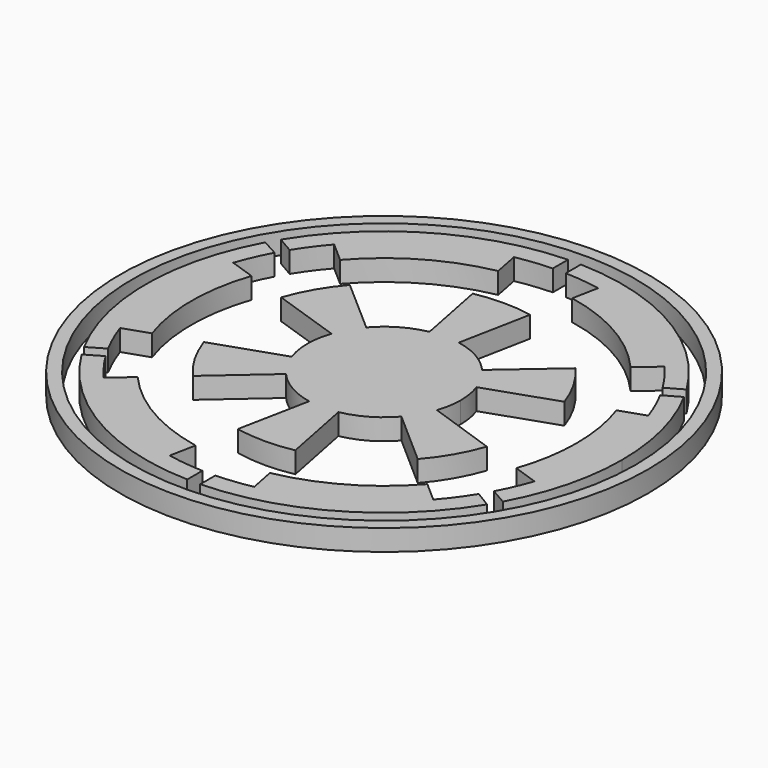
from build123d import *

# Parameters (mm, degrees)
F0_R     = 12.5129035434
F0_R_2   = 11.9218678141
F1_DEPTH = 1


with BuildPart() as f1:
    # F0 (on Top) → F1 (new body)
    with BuildSketch(Plane.XY):
        Circle(F0_R)
        Circle(F0_R_2, mode=Mode.SUBTRACT)
    extrude(amount=F1_DEPTH)


with BuildPart() as f1b:
    # F0 (on Top) → F1, piece 2 (new body)
    with BuildSketch(Plane.XY):
        with BuildLine():
            Line((8.8396388075, 5.4551908651), (9.6186460471, 5.8997504842))
            ThreePointArc((9.6186460471, 5.8997504842), (5.6447897831, 9.7704532065), (0.3066178794, 11.2796894031))
            Line((0.3066178794, 11.2796894031), (0.3066178794, 10.3828852974))
            ThreePointArc((0.3066178794, 10.3828852974), (1.1509963885, 10.3234455942), (1.9877316065, 10.1954521569))
            ThreePointArc((1.9877316065, 10.1954521569), (5.1936189617, 8.9958125649), (7.8355230443, 6.8193035014))
            ThreePointArc((7.8355230443, 6.8193035014), (8.3654322373, 6.1577483795), (8.8396388075, 5.4551908651))
        make_face()
        with BuildLine():
            Line((6.8870497225, 5.9972767185), (7.8355230443, 6.8193035014))
            ThreePointArc((7.8355230443, 6.8193035014), (5.1936189617, 8.9958125649), (1.9877316065, 10.1954521569))
            Line((1.9877316065, 10.1954521569), (1.7464057225, 8.9637519471))
            ThreePointArc((1.7464057225, 8.9637519471), (4.5644421401, 7.9097819102), (6.8870497225, 5.9972767185))
        make_face()
    extrude(amount=F1_DEPTH)


with BuildPart() as f1c:
    # F0 (on Top) → F1, piece 3 (new body)
    with BuildSketch(Plane.XY):
        with BuildLine():
            ThreePointArc((9.9261432267, -5.3662918481), (10.9391631066, -2.7676918331), (11.2838560588, 0))
            ThreePointArc((11.2838560588, 0), (10.9383436287, 2.7709287641), (9.9229655661, 5.3721654786))
            Line((9.9229655661, 5.3721654786), (9.1430323592, 4.9298357885))
            ThreePointArc((9.1430323592, 4.9298357885), (9.5144902121, 4.1680688127), (9.8226109206, 3.3785553607))
            ThreePointArc((9.8226109206, 3.3785553607), (10.2452385313, 1.7127197841), (10.3874116902, 0))
            ThreePointArc((10.3874116902, 0), (10.2459681219, -1.70834975), (9.8254894414, -3.3701749005))
            ThreePointArc((9.8254894414, -3.3701749005), (9.5176290977, -4.1608962954), (9.1462564846, -4.9238515351))
            Line((9.1462564846, -4.9238515351), (9.9261432267, -5.3662918481))
        make_face()
        with BuildLine():
            ThreePointArc((10.3874116902, 0), (10.2452385313, 1.7127197841), (9.8226109206, 3.3785553607))
            Line((9.8226109206, 3.3785553607), (8.6355698302, 2.9708106006))
            ThreePointArc((8.6355698302, 2.9708106006), (9.0072564883, 1.5060253886), (9.1322933548, 0))
            ThreePointArc((9.1322933548, 0), (9.0081483571, -1.5006815429), (8.6390886349, -2.9605623582))
            Line((8.6390886349, -2.9605623582), (9.8254894414, -3.3701749005))
            ThreePointArc((9.8254894414, -3.3701749005), (10.2459681219, -1.70834975), (10.3874116902, 0))
        make_face()
    extrude(amount=F1_DEPTH)


with BuildPart() as f1d:
    # F0 (on Top) → F1, piece 4 (new body)
    with BuildSketch(Plane.XY):
        with BuildLine():
            ThreePointArc((0.3073497054, -11.279669486), (5.6395470454, -9.7734802746), (9.6119265196, -5.9106916801))
            Line((9.6119265196, -5.9106916801), (8.8460164405, -5.4448429506))
            ThreePointArc((8.8460164405, -5.4448429506), (8.3575809895, -6.1684002486), (7.8101145103, -6.8483890776))
            ThreePointArc((7.8101145103, -6.8483890776), (5.1814766366, -9.0028118656), (1.9981252265, -10.1934202897))
            ThreePointArc((1.9981252265, -10.1934202897), (1.1566226105, -10.3228167551), (0.3073497054, -10.38286366))
            Line((0.3073497054, -10.38286366), (0.3073497054, -11.279669486))
        make_face()
        with BuildLine():
            ThreePointArc((1.9981252265, -10.1934202897), (5.1814766366, -9.0028118656), (7.8101145103, -6.8483890776))
            Line((7.8101145103, -6.8483890776), (6.867075268, -6.0201378042))
            ThreePointArc((6.867075268, -6.0201378042), (4.5549562659, -7.91524828), (1.7547104258, -8.9621299499))
            Line((1.7547104258, -8.9621299499), (1.9981252265, -10.1934202897))
        make_face()
    extrude(amount=F1_DEPTH)


with BuildPart() as f1e:
    # F0 (on Top) → F1, piece 5 (new body)
    with BuildSketch(Plane.XY):
        with BuildLine():
            ThreePointArc((-9.6198182765, -5.8978389164), (-5.6462804441, -9.7695918391), (-0.3078183345, -11.279656707))
            Line((-0.3078183345, -11.279656707), (-0.3078183345, -10.3828497772))
            ThreePointArc((-0.3078183345, -10.3828497772), (-1.1643749142, -10.3219451985), (-2.0129739246, -10.1904983981))
            ThreePointArc((-2.0129739246, -10.1904983981), (-5.1916924434, -8.996924541), (-7.8156817855, -6.8420347742))
            ThreePointArc((-7.8156817855, -6.8420347742), (-8.3597920993, -6.165403286), (-8.8454924969, -5.4456940889))
            Line((-8.8454924969, -5.4456940889), (-9.6198182765, -5.8978389164))
        make_face()
        with BuildLine():
            ThreePointArc((-7.8156817855, -6.8420347742), (-5.1916924434, -8.996924541), (-2.0129739246, -10.1904983981))
            Line((-2.0129739246, -10.1904983981), (-1.7689643242, -8.959327382))
            ThreePointArc((-1.7689643242, -8.959327382), (-4.5638648899, -7.9101149919), (-6.8710532338, -6.0155971753))
            Line((-6.8710532338, -6.0155971753), (-7.8156817855, -6.8420347742))
        make_face()
    extrude(amount=F1_DEPTH)


with BuildPart() as f1f:
    # F0 (on Top) → F1, piece 6 (new body)
    with BuildSketch(Plane.XY):
        with BuildLine():
            Line((-9.1400735771, 4.9353193035), (-9.9254042713, 5.3676584846))
            ThreePointArc((-9.9254042713, 5.3676584846), (-11.2838557205, -0.0027629713), (-9.9227744254, -5.3725185209))
            Line((-9.9227744254, -5.3725185209), (-9.1490233494, -4.9187085069))
            ThreePointArc((-9.1490233494, -4.9187085069), (-9.5222238475, -4.1503704197), (-9.8310338698, -3.3539670055))
            ThreePointArc((-9.8310338698, -3.3539670055), (-10.3874114756, -0.002111833), (-9.8323968267, 3.3499692932))
            ThreePointArc((-9.8323968267, 3.3499692932), (-9.5192957706, 4.1570818675), (-9.1400735771, 4.9353193035))
        make_face()
        with BuildLine():
            Line((-8.6439002318, 2.9464844647), (-9.8323968267, 3.3499692932))
            ThreePointArc((-9.8323968267, 3.3499692932), (-10.3874114756, -0.002111833), (-9.8310338698, -3.3539670055))
            Line((-9.8310338698, -3.3539670055), (-8.6428088374, -2.9496842744))
            ThreePointArc((-8.6428088374, -2.9496842744), (-9.1322931983, -0.0016904085), (-8.6439002318, 2.9464844647))
        make_face()
    extrude(amount=F1_DEPTH)


with BuildPart() as f1g:
    # F0 (on Top) → F1, piece 7 (new body)
    with BuildSketch(Plane.XY):
        with BuildLine():
            Line((-0.3083923438, 10.3828327438), (-0.3083923438, 11.2796410279))
            ThreePointArc((-0.3083923438, 11.2796410279), (-5.643671845, 9.7710989997), (-9.6163671511, 5.9034642687))
            Line((-9.6163671511, 5.9034642687), (-8.8405045503, 5.4537877589))
            ThreePointArc((-8.8405045503, 5.4537877589), (-8.3629197756, 6.1611601544), (-7.8288737244, 6.8269361965))
            ThreePointArc((-7.8288737244, 6.8269361965), (-5.1952200664, 8.9948879973), (-2.0012950213, 10.1927984313))
            ThreePointArc((-2.0012950213, 10.1927984313), (-1.1587459562, 10.3225786232), (-0.3083923438, 10.3828327438))
        make_face()
        with BuildLine():
            Line((-1.7593740184, 8.9612155973), (-2.0012950213, 10.1927984313))
            ThreePointArc((-2.0012950213, 10.1927984313), (-5.1952200664, 8.9948879973), (-7.8288737244, 6.8269361965))
            Line((-7.8288737244, 6.8269361965), (-6.8844707632, 6.0002370143))
            ThreePointArc((-6.8844707632, 6.0002370143), (-4.5684638222, 7.9074597832), (-1.7593740184, 8.9612155973))
        make_face()
    extrude(amount=F1_DEPTH)


with BuildPart() as f1h:
    # F0 (on Top) → F1, piece 8 (new body)
    with BuildSketch(Plane.XY):
        with BuildLine():
            ThreePointArc((3.6334755842, 0), (3.583514543, 0.6004734312), (3.4350053685, 1.1844335945))
            ThreePointArc((3.4350053685, 1.1844335945), (3.1422657187, 1.8243659102), (2.7316602961, 2.3958666173))
            ThreePointArc((2.7316602961, 2.3958666173), (1.8079395778, 3.1517454377), (0.6891283027, 3.5675267348))
            ThreePointArc((0.6891283027, 3.5675267348), (-0.0052782479, 3.6334717504), (-0.6994902751, 3.5655095255))
            ThreePointArc((-0.6994902751, 3.5655095255), (-1.822570271, 3.1433075619), (-2.7469170245, 2.3783590313))
            ThreePointArc((-2.7469170245, 2.3783590313), (-3.1495741996, 1.8117193995), (-3.4369534347, 1.1787688105))
            ThreePointArc((-3.4369534347, 1.1787688105), (-3.6334755809, 0.0001559043), (-3.4370545787, -1.1784738623))
            ThreePointArc((-3.4370545787, -1.1784738623), (-3.1441760167, -1.8210716617), (-2.7325265002, -2.3948786497))
            ThreePointArc((-2.7325265002, -2.3948786497), (-1.8132795313, -3.1486762556), (-0.699929749, -3.5654232803))
            ThreePointArc((-0.699929749, -3.5654232803), (-0.0059345256, -3.6334707378), (0.6882792775, -3.5676906336))
            ThreePointArc((0.6882792775, -3.5676906336), (1.8100979826, -3.1505063267), (2.7355090954, -2.3914712648))
            ThreePointArc((2.7355090954, -2.3914712648), (3.1486052863, -1.8134027606), (3.4413079596, -1.1659950037))
            ThreePointArc((3.4413079596, -1.1659950037), (3.5851118023, -0.5908622396), (3.6334755842, 0))
        make_face()
        with BuildLine():
            Line((0.6891283027, 3.5675267348), (1.3536648238, 6.9592465073))
            ThreePointArc((1.3536648238, 6.9592465073), (-0.0061134144, 7.0896743952), (-1.3656646951, 6.956901634))
            Line((-1.3656646951, 6.956901634), (-0.6994902751, 3.5655095255))
            ThreePointArc((-0.6994902751, 3.5655095255), (-0.0052782479, 3.6334717504), (0.6891283027, 3.5675267348))
        make_face()
        with BuildLine():
            Line((-2.7469170245, 2.3783590313), (-5.3475202715, 4.6548412809))
            ThreePointArc((-5.3475202715, 4.6548412809), (-6.1434908203, 3.5385082939), (-6.7097054717, 2.2898412362))
            Line((-6.7097054717, 2.2898412362), (-3.4369534347, 1.1787688105))
            ThreePointArc((-3.4369534347, 1.1787688105), (-3.1495741996, 1.8117193995), (-2.7469170245, 2.3783590313))
        make_face()
        with BuildLine():
            ThreePointArc((-6.7090562856, -2.2917426037), (-6.1377513921, -3.5484543471), (-5.3337370357, -4.6706283986))
            Line((-5.3337370357, -4.6706283986), (-2.7325265002, -2.3948786497))
            ThreePointArc((-2.7325265002, -2.3948786497), (-3.1441760167, -1.8210716617), (-3.4370545787, -1.1784738623))
            Line((-3.4370545787, -1.1784738623), (-6.7090562856, -2.2917426037))
        make_face()
        with BuildLine():
            ThreePointArc((-1.3718559148, -6.9556834138), (-0.0067697658, -7.0896737989), (1.3585697823, -6.9582906343))
            Line((1.3585697823, -6.9582906343), (0.6882792775, -3.5676906336))
            ThreePointArc((0.6882792775, -3.5676906336), (-0.0059345256, -3.6334707378), (-0.699929749, -3.5654232803))
            Line((-0.699929749, -3.5654232803), (-1.3718559148, -6.9556834138))
        make_face()
        with BuildLine():
            ThreePointArc((5.3323453366, -4.6722172055), (6.1366397383, -3.5503764767), (6.7083031564, -2.2939461994))
            Line((6.7083031564, -2.2939461994), (3.4413079596, -1.1659950037))
            ThreePointArc((3.4413079596, -1.1659950037), (3.1486052863, -1.8134027606), (2.7355090954, -2.3914712648))
            Line((2.7355090954, -2.3914712648), (5.3323453366, -4.6722172055))
        make_face()
        with BuildLine():
            Line((3.4350053685, 1.1844335945), (6.7037443217, 2.3072348112))
            ThreePointArc((6.7037443217, 2.3072348112), (6.1373562448, 3.5491377444), (5.3434747305, 4.6594847579))
            Line((5.3434747305, 4.6594847579), (2.7316602961, 2.3958666173))
            ThreePointArc((2.7316602961, 2.3958666173), (3.1422657187, 1.8243659102), (3.4350053685, 1.1844335945))
        make_face()
    extrude(amount=F1_DEPTH)


solid = Compound([f1.part, f1b.part, f1c.part, f1d.part, f1e.part, f1f.part, f1g.part, f1h.part])
